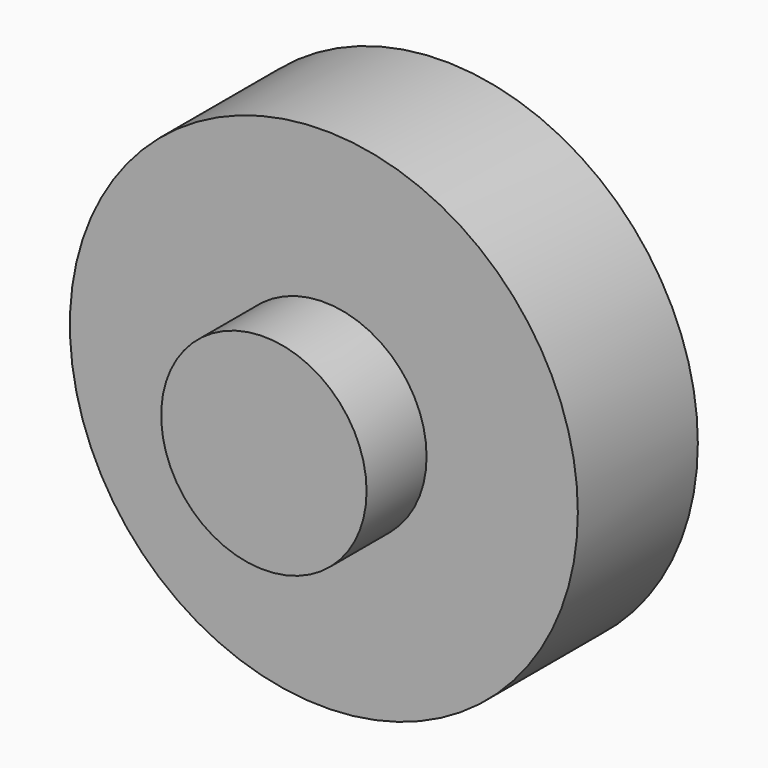
from build123d import *

# Parameters (mm, degrees)
F0_R     = 34.784526
F1_DEPTH = 25.4
F0_R_2   = 86.019603
F2_DEPTH = 50.8


with BuildPart() as f1:
    # F0 (on Front) → F1 (new body)
    with BuildSketch(Plane.XZ):
        Circle(F0_R)
    extrude(amount=F1_DEPTH)

    # F0 (on Front) → F2 (join)
    with BuildSketch(Plane.XZ):
        Circle(F0_R_2)
        Circle(F0_R, mode=Mode.SUBTRACT)
    extrude(amount=-F2_DEPTH)


solid = f1.part
